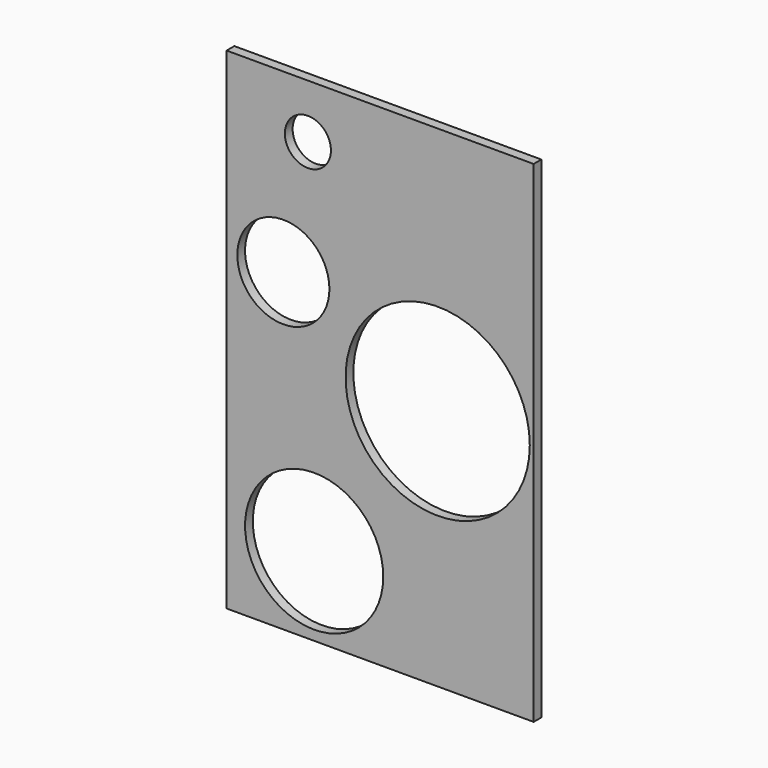
from build123d import *

# Parameters (mm, degrees)
F0_W     = 63.5
F0_H     = 101.6
F0_R     = 14.2875
F0_R_2   = 19.05
F0_R_3   = 9.525
F0_R_4   = 4.7625
F1_DEPTH = 2


with BuildPart() as f1:
    # F0 (on Front) → F1 (new body)
    with BuildSketch(Plane.XZ):
        with Locations((-62.870237, 28.763438)):
            Rectangle(F0_W, F0_H)
        with Locations((-76.515593, -5.71368)):
            Circle(F0_R, mode=Mode.SUBTRACT)
        with Locations((-50.965656, 28.088368)):
            Circle(F0_R_2, mode=Mode.SUBTRACT)
        with Locations((-82.88765, 43.046456)):
            Circle(F0_R_3, mode=Mode.SUBTRACT)
        with Locations((-77.811801, 68.382387)):
            Circle(F0_R_4, mode=Mode.SUBTRACT)
    extrude(amount=F1_DEPTH)


solid = f1.part
